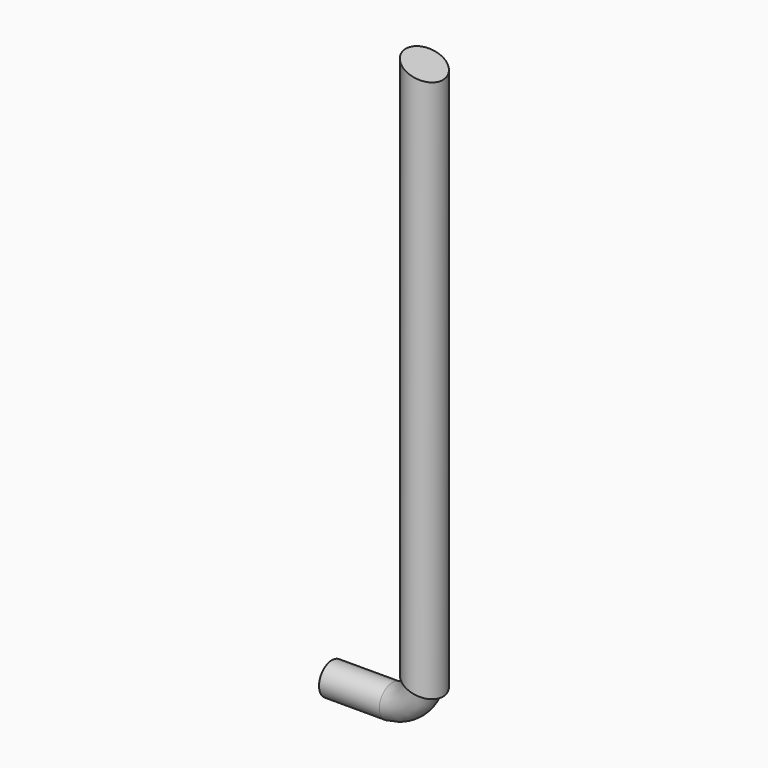
from build123d import *

# Parameters (mm, degrees)
F0_R     = 4
F3_R     = 5
F3_R_2   = 4
F7_DEPTH = 15


with BuildPart() as f2:
    # F2: sweep along a path in F1
    with BuildLine(Plane.XZ) as f2_path:
        ThreePointArc((0, 0), (5.0440752924, 2.2394060053), (8, 6.8998935265))
    # F0 (on Right) → F2 (sweep)
    with BuildSketch(Plane.YZ):
        Circle(F0_R)
    sweep(path=f2_path.line)

    # F6: sweep along a path in F5
    with BuildLine(Plane.XZ) as f6_path:
        Line((8, 6.8998935265), (8, 141.8998935265))
    # F3 (on face) → F6 (sweep)
    with BuildSketch(Plane(origin=(3.6385222305, 0, 8.719810755), x_dir=(0.9228788637, 0, -0.3850903828), z_dir=(0.3850903828, 0, 0.9228788637))):
        with Locations((4.7259482702, 0)):
            Circle(F3_R)
        with Locations((4.7259482702, 0)):
            Circle(F3_R_2, mode=Mode.SUBTRACT)
        with Locations((4.7259482702, 0)):
            Circle(F3_R_2)
    sweep(path=f6_path.line)

    # F7 (add): a face of the model
    f7_faces = [f2.faces().sort_by_distance(p)[0] for p in [
        (0, 0, 0),
    ]]
    extrude(f7_faces, amount=F7_DEPTH)


solid = f2.part
